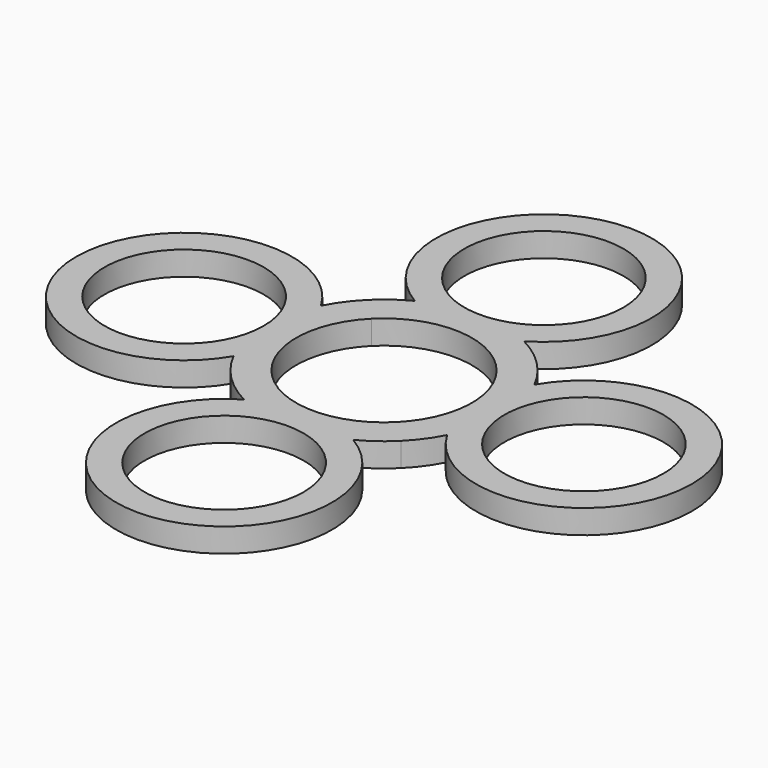
from build123d import *

# Parameters (mm, degrees)
F0_R     = 9.95
F1_DEPTH = 3


with BuildPart() as f1:
    # F0 (on Top) → F1 (new body)
    with BuildSketch(Plane.XY):
        with BuildLine():
            ThreePointArc((6.829639, 13.355), (0, 38.5), (-6.829639, 13.355))
            ThreePointArc((-6.829639, 13.355), (-8.825761, 12.128724), (-10.606602, 10.606602))
            ThreePointArc((-10.606602, 10.606602), (-12.128724, 8.825761), (-13.355, 6.829639))
            ThreePointArc((-13.355, 6.829639), (-38.5, 0), (-13.355, -6.829639))
            ThreePointArc((-13.355, -6.829639), (-12.128724, -8.825761), (-10.606602, -10.606602))
            ThreePointArc((-10.606602, -10.606602), (-8.825761, -12.128724), (-6.829639, -13.355))
            ThreePointArc((-6.829639, -13.355), (0, -38.5), (6.829639, -13.355))
            ThreePointArc((6.829639, -13.355), (8.825761, -12.128724), (10.606602, -10.606602))
            ThreePointArc((10.606602, -10.606602), (12.128724, -8.825761), (13.355, -6.829639))
            ThreePointArc((13.355, -6.829639), (38.5, 0), (13.355, 6.829639))
            ThreePointArc((13.355, 6.829639), (12.128724, 8.825761), (10.606602, 10.606602))
            ThreePointArc((10.606602, 10.606602), (8.825761, 12.128724), (6.829639, 13.355))
        make_face()
        with Locations((0, -25)):
            Circle(F0_R, mode=Mode.SUBTRACT)
        with Locations((-25, 0)):
            Circle(F0_R, mode=Mode.SUBTRACT)
        with BuildLine():
            ThreePointArc((-7.778175, 7.778175), (0, 11), (7.778175, 7.778175))
            ThreePointArc((7.778175, 7.778175), (11, 0), (7.778175, -7.778175))
            ThreePointArc((7.778175, -7.778175), (0, -11), (-7.778175, -7.778175))
            ThreePointArc((-7.778175, -7.778175), (-11, 0), (-7.778175, 7.778175))
        make_face(mode=Mode.SUBTRACT)
        with Locations((25, 0)):
            Circle(F0_R, mode=Mode.SUBTRACT)
        with Locations((0, 25)):
            Circle(F0_R, mode=Mode.SUBTRACT)
    extrude(amount=F1_DEPTH)


solid = f1.part
